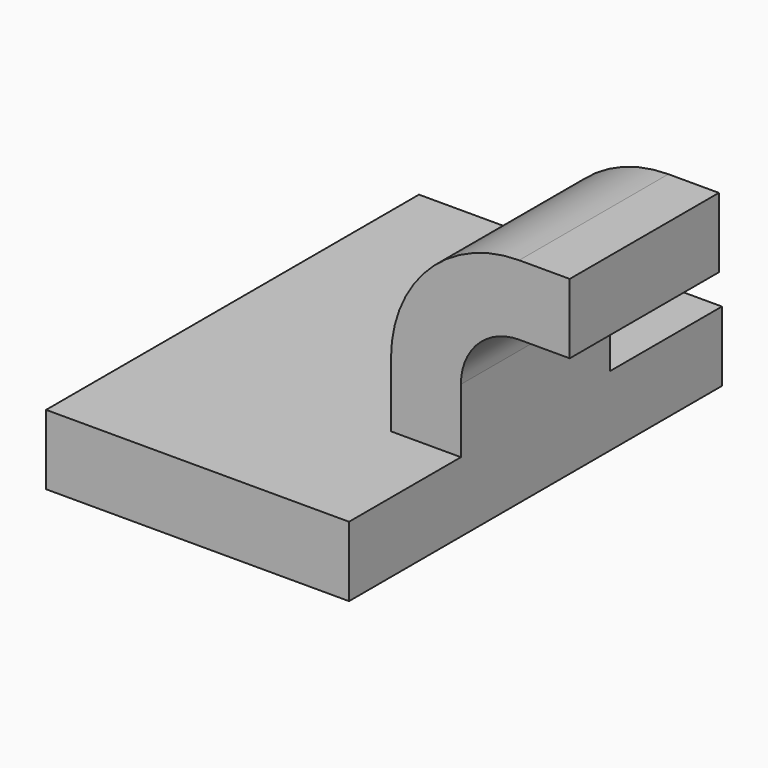
from build123d import *

# Parameters (mm, degrees)
F2_DEPTH = 63.5
F3_DEPTH = 25.4


with BuildPart() as f2:
    # F0 (on Front) → F2 (new body, symmetric)
    with BuildSketch(Plane.XZ):
        Polygon((-41.275, -9.525), (41.275, -9.525), (41.275, 9.525), (22.225, 9.525), (-41.275, 9.525), align=None)
    extrude(amount=F2_DEPTH, both=True)

    # F1 (on face) → F3 (join, symmetric)
    with BuildSketch(Plane.XZ):
        with BuildLine():
            Line((22.225, 27.0002), (22.225, 9.525))
            Line((22.225, 9.525), (41.275, 9.525))
            Line((41.275, 9.525), (41.275, 27.0002))
            ThreePointArc((41.275, 27.0002), (45.92468, 38.22552), (57.15, 42.8752))
            Line((57.15, 42.8752), (70.925324, 42.8752))
            Line((70.925324, 42.8752), (70.925324, 61.9252))
            Line((70.925324, 61.9252), (57.15, 61.9252))
            ThreePointArc((57.15, 61.9252), (32.454296, 51.695904), (22.225, 27.0002))
        make_face()
    extrude(amount=F3_DEPTH, both=True)


solid = f2.part
